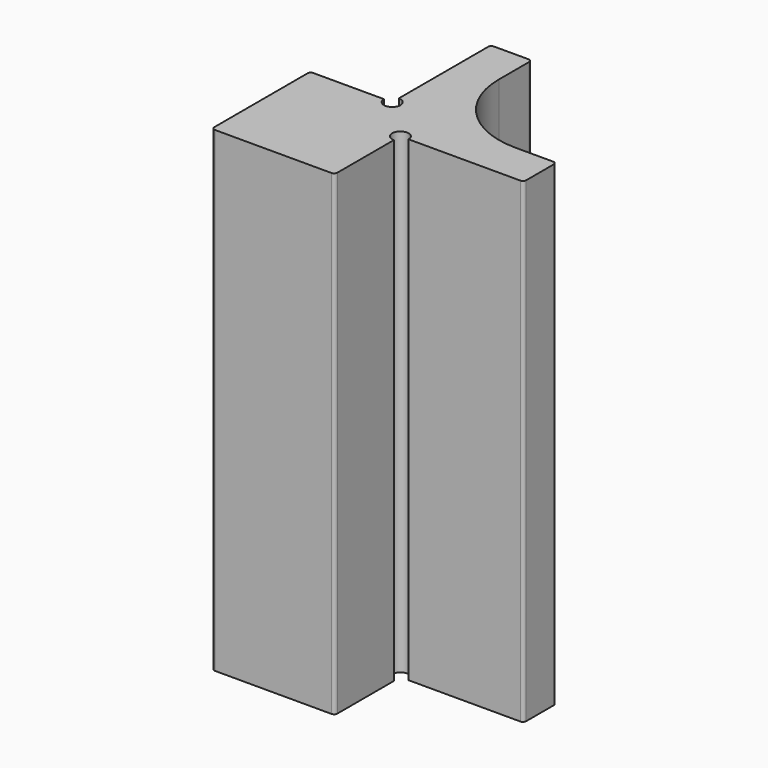
from build123d import *

# Parameters (mm, degrees)
BOX003_W          = 15
BOX003_H          = 15
BOX003_DEPTH      = 58
FILLET_R          = 10
CYLINDER_R        = 1
CYLINDER_DEPTH    = 58
CYLINDER001_R     = 1
CYLINDER001_DEPTH = 58
BOX002_W          = 10
BOX002_H          = 15
BOX002_DEPTH      = 58
BOX001_W          = 15
BOX001_H          = 10
BOX001_DEPTH      = 58
BOX_W             = 30
BOX_H             = 30
BOX_DEPTH         = 58
FILLET001_R       = 0.4


with BuildPart() as fillet_body:
    # Box003 → Box003 (new body)
    with BuildSketch(Plane(origin=(15, 15, 0), x_dir=(1, 0, 0), z_dir=(0, 0, 1))):
        with Locations((7.5, 7.5)):
            Rectangle(BOX003_W, BOX003_H)
    extrude(amount=BOX003_DEPTH)

    # Fillet
    fillet_edges = [fillet_body.edges().sort_by_distance(p)[0] for p in [
        (15, 15, 29),
    ]]
    fillet(fillet_edges, radius=FILLET_R)


with BuildPart() as cylinder:
    # Cylinder → Cylinder (new body)
    with BuildSketch(Plane(origin=(15, 10, 0), x_dir=(1, 0, 0), z_dir=(0, 0, 1))):
        Circle(CYLINDER_R)
    extrude(amount=CYLINDER_DEPTH)


with BuildPart() as cylinder001:
    # Cylinder001 → Cylinder001 (new body)
    with BuildSketch(Plane(origin=(10, 15, 0), x_dir=(1, 0, 0), z_dir=(0, 0, 1))):
        Circle(CYLINDER001_R)
    extrude(amount=CYLINDER001_DEPTH)


with BuildPart() as cube002:
    # Box002 → Box002 (new body)
    with BuildSketch(Plane(origin=(0, 15, 0), x_dir=(1, 0, 0), z_dir=(0, 0, 1))):
        with Locations((5, 7.5)):
            Rectangle(BOX002_W, BOX002_H)
    extrude(amount=BOX002_DEPTH)


with BuildPart() as cube001:
    # Box001 → Box001 (new body)
    with BuildSketch(Plane(origin=(15, 0, 0), x_dir=(1, 0, 0), z_dir=(0, 0, 1))):
        with Locations((7.5, 5)):
            Rectangle(BOX001_W, BOX001_H)
    extrude(amount=BOX001_DEPTH)


with BuildPart() as fillet001:
    # Box → Box (new body)
    with BuildSketch(Plane.XY):
        with Locations((15, 15)):
            Rectangle(BOX_W, BOX_H)
    extrude(amount=BOX_DEPTH)

    # Cut: cut Cube001
    add(cube001.part, mode=Mode.SUBTRACT)

    # Cut001: cut Cube002
    add(cube002.part, mode=Mode.SUBTRACT)

    # Cut002: cut Cylinder001
    add(cylinder001.part, mode=Mode.SUBTRACT)

    # Cut003: cut Cylinder
    add(cylinder.part, mode=Mode.SUBTRACT)

    # Cut004: cut Fillet body
    add(fillet_body.part, mode=Mode.SUBTRACT)

    # Fillet001
    fillet001_edges = [fillet001.edges().sort_by_distance(p)[0] for p in [
        (0, 15, 29),
        (0, 0, 29),
        (15, 0, 29),
        (15, 30, 29),
        (10, 30, 29),
        (30, 15, 29),
        (30, 10, 29),
    ]]
    fillet(fillet001_edges, radius=FILLET001_R)


solid = fillet001.part
